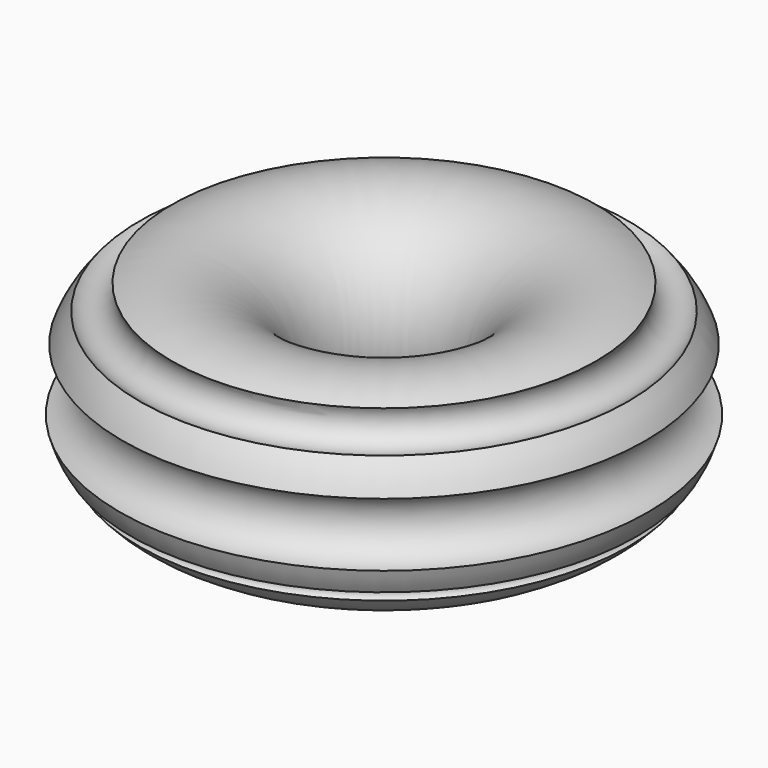
from build123d import *


with BuildPart() as f1:
    # F0 (on Front) → F1 (revolve)
    with BuildSketch(Plane.XZ):
        with BuildLine():
            ThreePointArc((0.782264, -0.65609), (0.767353, -0.552473), (0.870349, -0.533745))
            ThreePointArc((0.870349, -0.533745), (0.934792, -0.410553), (0.981902, -0.279748))
            ThreePointArc((0.981902, -0.279748), (0.695273, 0.029367), (0.954815, 0.361552))
            ThreePointArc((0.954815, 0.361552), (0.878859, 0.519614), (0.776974, 0.662346))
            ThreePointArc((0.776974, 0.662346), (0.494508, 0.640772), (0.443782, 0.919482))
            ThreePointArc((0.443782, 0.919482), (-0.998201, -0.214444), (0.782264, -0.65609))
        make_face()
    revolve(axis=Axis((-1.749062, 0, 0.967558), (0, 0, 1)))


solid = f1.part
